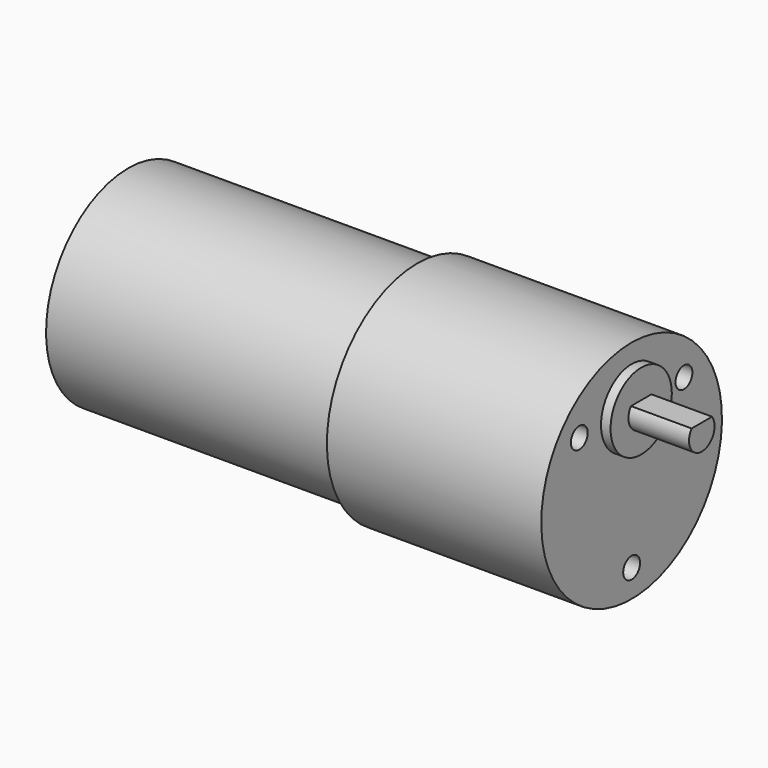
from build123d import *

# Parameters (mm, degrees)
F2_R     = 6
F3_DEPTH = 1.5
F5_DEPTH = 9.5
F6_D     = 3.3
F6_DEPTH = 4.5
F6_TIP   = 0.9914200214


with BuildPart() as f1:
    # F0 (on Front) → F1 (revolve)
    with BuildSketch(Plane.XZ):
        Polygon((-78.9, 16.1), (-78.9, 0), (0, 0), (0, 17.7), (-33.6, 17.7), (-33.6, 16.1), align=None)
    revolve(axis=Axis((-39.45, 0, 0), (-1, 0, 0)))

    # F2 (on face) → F3 (join)
    with BuildSketch(Plane.YZ):
        with Locations((0, 8.73)):
            Circle(F2_R)
    extrude(amount=F3_DEPTH)

    # F4 (on face) → F5 (join)
    with BuildSketch(Plane.YZ.offset(1.5)):
        with BuildLine():
            Line((2, 10.23), (-2, 10.23))
            ThreePointArc((-2, 10.23), (0, 6.23), (2, 10.23))
        make_face()
    extrude(amount=F5_DEPTH)

    # F6
    with Locations(Plane.YZ):
        with Locations((-10.25, 8.73), (10.25, 8.73), (0, -13.37)):
            Hole(F6_D / 2, depth=F6_DEPTH)
            with Locations((0, 0, -(F6_DEPTH + F6_TIP / 2))):  # 118° drill point
                Cone(0, F6_D / 2, F6_TIP, mode=Mode.SUBTRACT)


solid = f1.part
